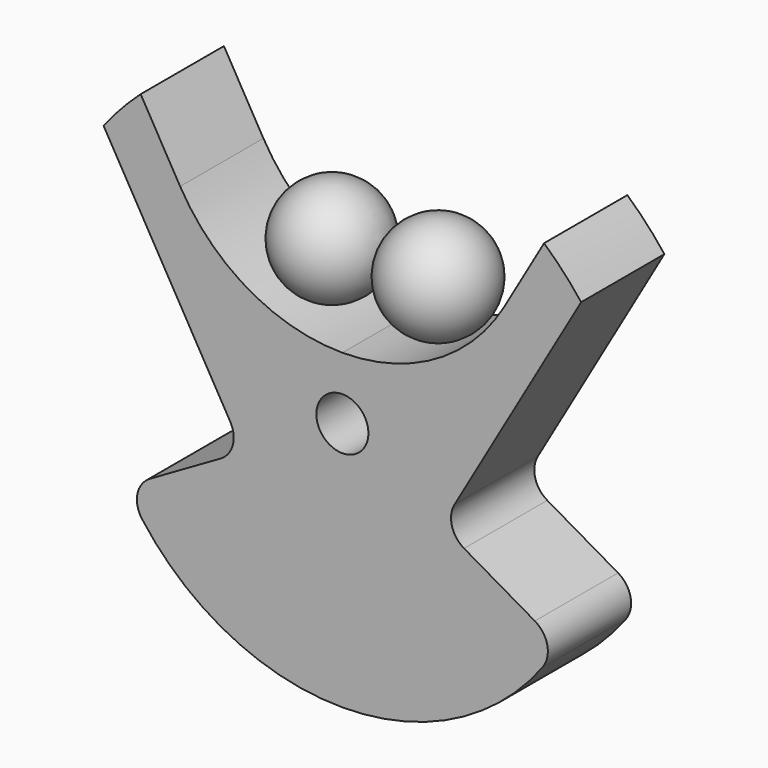
from build123d import *

# Parameters (mm, degrees)
F0_R     = 3.175
F1_DEPTH = 6.35


with BuildPart() as f1:
    # F0 (on Front) → F1 (new body, symmetric)
    with BuildSketch(Plane.XZ):
        with BuildLine():
            Line((13.685875, -4.235369), (29.137213, 22.527133))
            ThreePointArc((29.137213, 22.527133), (26.986449, 25.063529), (24.615665, 27.395582))
            Line((24.615665, 27.395582), (19.797341, 19.05))
            ThreePointArc((19.797341, 19.05), (11.43, 10.682659), (0, 7.62))
            ThreePointArc((0, 7.62), (-11.43, 10.682659), (-19.797341, 19.05))
            Line((-19.797341, 19.05), (-24.615665, 27.395582))
            ThreePointArc((-24.615665, 27.395582), (-26.986449, 25.063529), (-29.137213, 22.527133))
            Line((-29.137213, 22.527133), (-13.685875, -4.235369))
            ThreePointArc((-13.685875, -4.235369), (-13.368691, -6.64462), (-14.848006, -8.5725))
            Line((-14.848006, -8.5725), (-23.486417, -13.559889))
            ThreePointArc((-23.486417, -13.559889), (-25.008384, -15.667771), (-24.445303, -18.205976))
            ThreePointArc((-24.445303, -18.205976), (0, -30.48), (24.445303, -18.205976))
            ThreePointArc((24.445303, -18.205976), (25.008384, -15.667771), (23.486417, -13.559889))
            Line((23.486417, -13.559889), (14.848006, -8.5725))
            ThreePointArc((14.848006, -8.5725), (13.368691, -6.64462), (13.685875, -4.235369))
        make_face()
        Circle(F0_R, mode=Mode.SUBTRACT)
    extrude(amount=F1_DEPTH, both=True)


with BuildPart() as f3:
    # F2 (on Front) → F3 (revolve)
    with BuildSketch(Plane.XZ):
        with BuildLine():
            Line((6.594034, 8.99399), (6.594034, 21.69399))
            ThreePointArc((6.594034, 21.69399), (0.244034, 15.34399), (6.594034, 8.99399))
        make_face()
    revolve(axis=Axis((6.594034, 0, 15.34399), (0, 0, 1)))


with BuildPart() as f5:
    # F4 (on Front) → F5 (revolve)
    with BuildSketch(Plane.XZ):
        with BuildLine():
            Line((-6.35, 21.59), (-6.35, 8.89))
            ThreePointArc((-6.35, 8.89), (0, 15.24), (-6.35, 21.59))
        make_face()
    revolve(axis=Axis((-6.35, 0, 15.24), (0, 0, -1)))


solid = Compound([f1.part, f3.part, f5.part])
